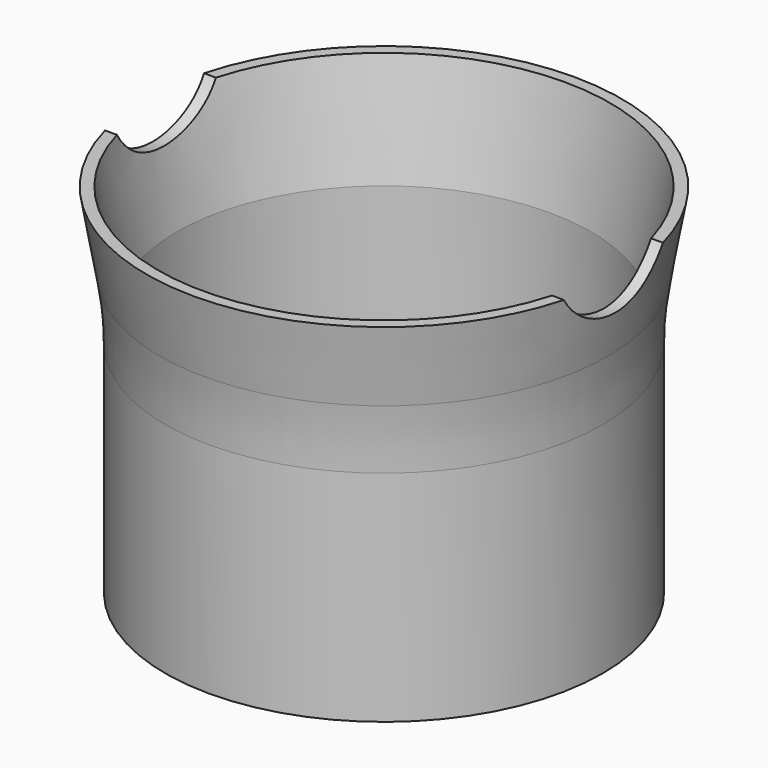
from build123d import *

# Parameters (mm, degrees)
F0_R     = 29
F1_DEPTH = 1.6
F0_R_2   = 30.6
F2_DEPTH = 35
F5_R     = 10
F6_DEPTH = 40


with BuildPart() as f1:
    # F0 (on Top) → F1 (new body)
    with BuildSketch(Plane.XY):
        Circle(F0_R)
    extrude(amount=F1_DEPTH)

    # F0 (on Top) → F2 (join)
    with BuildSketch(Plane.XY):
        Circle(F0_R_2)
        Circle(F0_R, mode=Mode.SUBTRACT)
    extrude(amount=F2_DEPTH)

    # F4: sweep along a path in F4_path
    with BuildLine(Plane(origin=(30.6, 0, 35), x_dir=(0, 1, 0), z_dir=(0, 0, 1))) as f4_path:
        CenterArc((0, 30.6), 30.6, 0, 360)
    # F3 (on Front) → F4 (sweep)
    with BuildSketch(Plane.XZ):
        with BuildLine():
            Line((-33.2449047106, 50), (-31.3596123494, 39.3079757071))
            ThreePointArc((-31.3596123494, 39.3079757071), (-30.7902650954, 34.9833539611), (-30.6, 30.6255668237))
            Line((-30.6, 30.6255668237), (-30.6, 35))
            Line((-30.6, 35), (-29, 35))
            Line((-29, 35), (-31.6449047106, 50))
            Line((-31.6449047106, 50), (-33.2449047106, 50))
        make_face()
    sweep(path=f4_path.line)

    # F5 (on Right) → F6 (cut, symmetric)
    with BuildSketch(Plane.YZ):
        with Locations((0, 55)):
            Circle(F5_R)
    extrude(amount=F6_DEPTH, both=True, mode=Mode.SUBTRACT)


solid = f1.part
